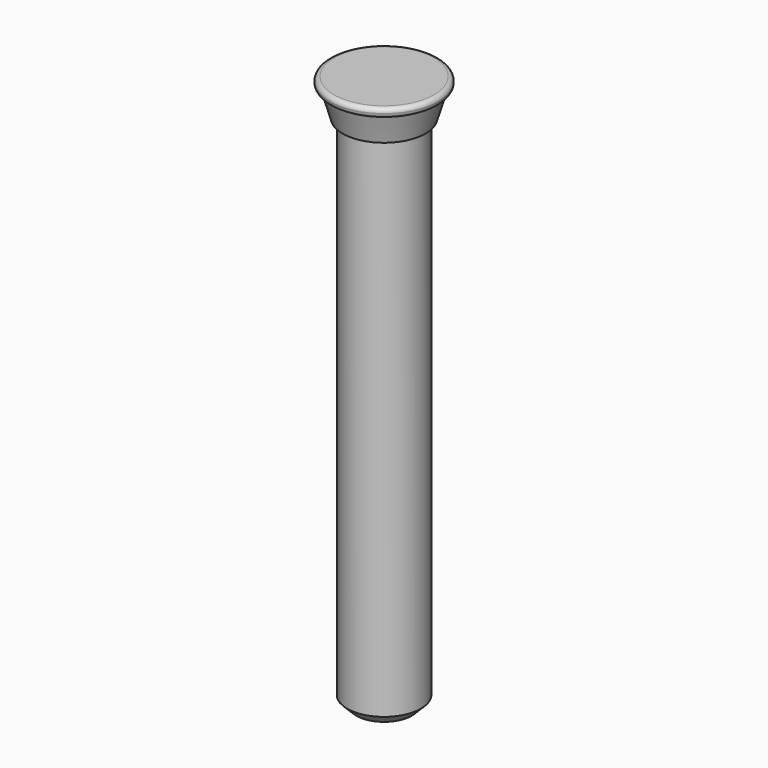
from build123d import *

# Parameters (mm, degrees)
SKETCH_R     = 2
PAD_DEPTH    = 28
CHAMFER_SIZE = 0.5
SKETCH001_R  = 2.95
PAD001_DEPTH = 0.5
FILLET_R     = 0.24


with BuildPart() as chamfer_body:
    # Sketch → Pad (new body)
    with BuildSketch(Plane.XY):
        Circle(SKETCH_R)
    extrude(amount=PAD_DEPTH)

    # Chamfer
    chamfer_edges = [chamfer_body.edges().sort_by_distance(p)[0] for p in [
        (-2, 0, 0),
    ]]
    chamfer(chamfer_edges, length=CHAMFER_SIZE)


with BuildPart() as fillet_body:
    # Cone → Cone (revolve)
    with BuildSketch(Plane(origin=(0, 0, 28), x_dir=(1, 0, 0), z_dir=(0, -1, 0))):
        Polygon((0, 0), (2.25, 0), (2.7, 1.5), (0, 1.5), align=None)
    revolve(axis=Axis((0, 0, 28), (0, 0, 1)))

    # Fusion: union Chamfer body
    add(chamfer_body.part)

    # Sketch001 → Pad001 (new body)
    with BuildSketch(Plane.XY.offset(29.5)):
        Circle(SKETCH001_R)
    extrude(amount=PAD001_DEPTH)

    # Fillet
    fillet_edges = [fillet_body.edges().sort_by_distance(p)[0] for p in [
        (-2.95, 0, 29.5),
        (-2.95, 0, 30),
    ]]
    fillet(fillet_edges, radius=FILLET_R)


solid = fillet_body.part
